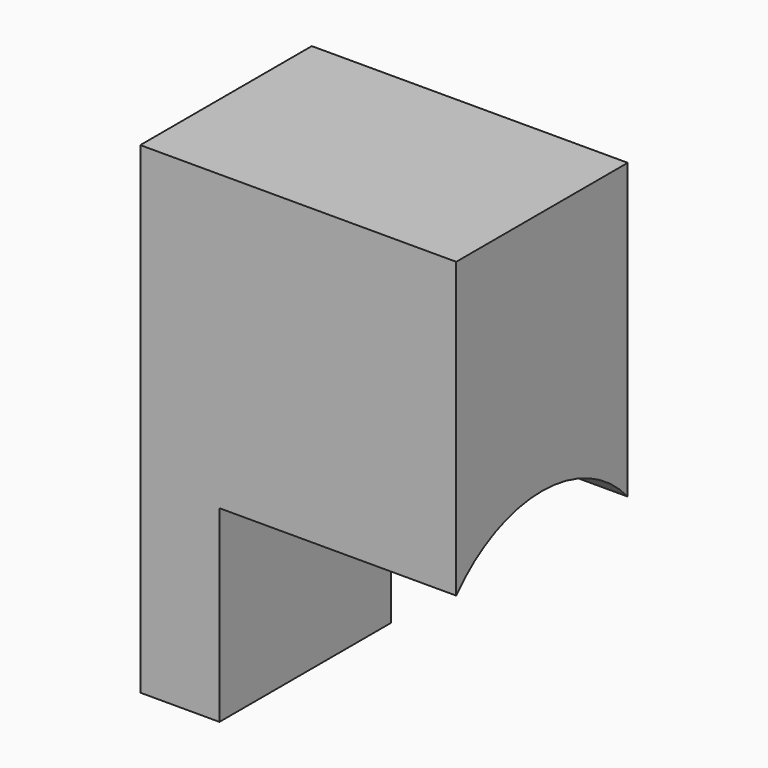
from build123d import *

# Parameters (mm, degrees)
F1_DEPTH   = 23
F1_FACE1_W = 23
F1_FACE1_H = 51.7166927457
F3_DEPTH   = 25.4


with BuildPart() as f1:
    # F0 (on Front) → F1 (new body)
    with BuildSketch(Plane.XZ):
        Polygon((41.91, 51.7166927457), (41.91, 51.36642), (41.91, 0), (75.8052021265, 0), (75.8052021265, 51.7166927457), align=None)
    extrude(amount=-F1_DEPTH)

    # F2 (on face) + F1_face1 (on face) → F3 (cut)
    with BuildSketch(Plane.YZ.offset(75.8052021265)):
        with BuildLine():
            Line((0, 0), (23, 0))
            ThreePointArc((23, 0), (11.5, 25.3947172526), (0, 0))
        make_face()
    with BuildSketch(Plane(origin=(41.91, 11.5, 25.8583463728), x_dir=(0, -1, 0), z_dir=(-1, 0, 0))):
        Rectangle(F1_FACE1_W, F1_FACE1_H)
    extrude(amount=-F3_DEPTH, dir=(1, 0, 0), mode=Mode.SUBTRACT)


solid = f1.part
